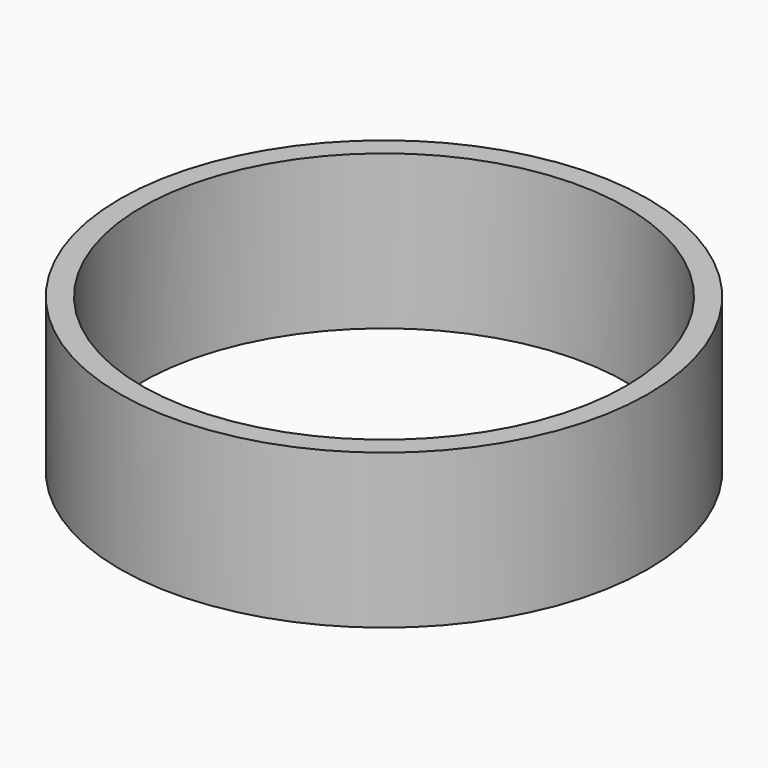
from build123d import *

# Parameters (mm, degrees)
SKETCH_R   = 120
SKETCH_R_2 = 110
PAD_DEPTH  = 70


with BuildPart() as part:
    # Sketch → Pad (new body)
    with BuildSketch(Plane.XY):
        Circle(SKETCH_R)
        Circle(SKETCH_R_2, mode=Mode.SUBTRACT)
    extrude(amount=PAD_DEPTH)


solid = part.part
